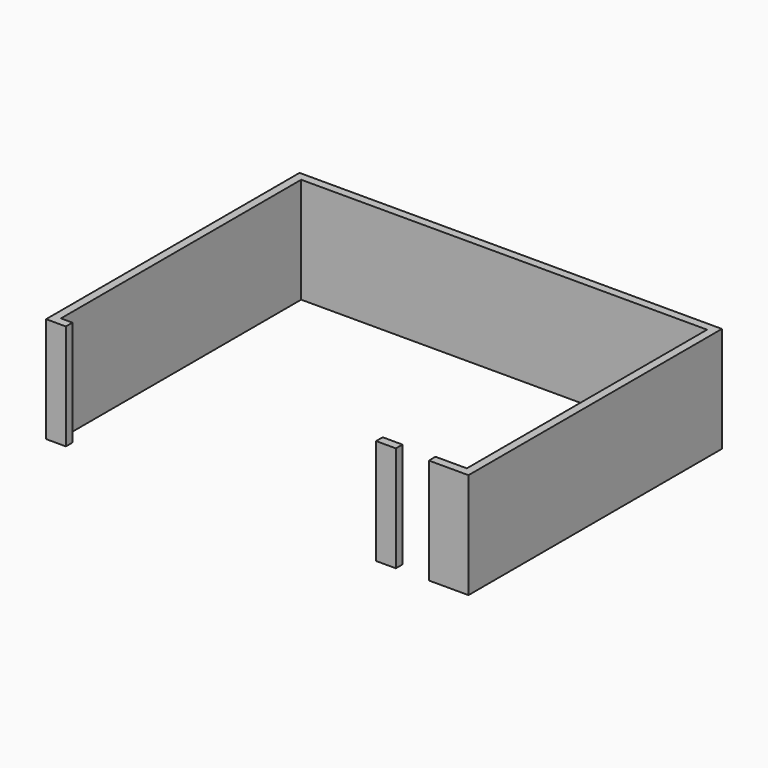
from build123d import *

# Parameters (mm, degrees)
F1_W     = 457.2
F1_H     = 190.5
F2_DEPTH = 2438.4


with BuildPart() as f2:
    # F1 (on face) → F2 (new body)
    with BuildSketch(Plane.XY):
        with Locations((9818.542808, 3989.782204)):
            Rectangle(F1_W, F1_H)
        Polygon((11723.542808, 11209.732204), (1969.942808, 11209.732204), (1969.942808, 3894.532204), (2427.142808, 3894.532204), (2427.142808, 4085.032204), (2160.442808, 4085.032204), (2160.442808, 11019.232204), (11533.042808, 11019.232204), (11533.042808, 4085.032204), (10809.142808, 4085.032204), (10809.142808, 3894.532204), (11723.542808, 3894.532204), align=None)
    extrude(amount=F2_DEPTH)


solid = f2.part
